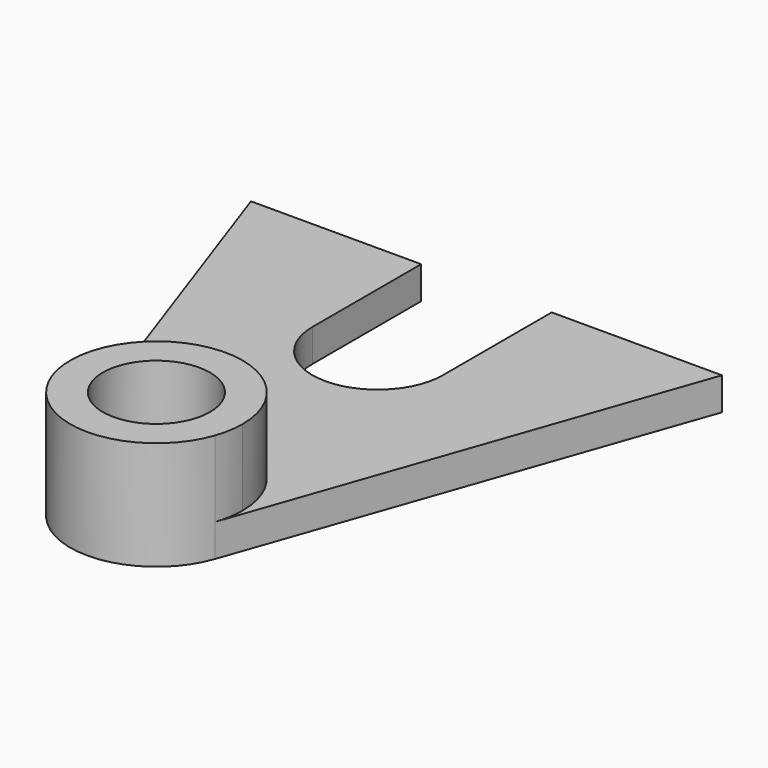
from build123d import *

# Parameters (mm, degrees)
F0_R     = 4.925
F1_DEPTH = 10
F2_DEPTH = 3


with BuildPart() as f1:
    # F0 (on Top) → F1 (new body)
    with BuildSketch(Plane.XY):
        with BuildLine():
            ThreePointArc((7.925, -25.425), (-1.326108, -17.611738), (-7.481199, -28.039821))
            ThreePointArc((-7.481199, -28.039821), (0, -33.35), (7.481199, -28.039821))
            ThreePointArc((7.481199, -28.039821), (7.813262, -26.751108), (7.925, -25.425))
        make_face()
        with Locations((0, -25.425)):
            Circle(F0_R, mode=Mode.SUBTRACT)
    extrude(amount=F1_DEPTH)

    # F0 (on Top) → F2 (join)
    with BuildSketch(Plane.XY):
        with BuildLine():
            Line((-6, 12.5), (-21.650635, 12.5))
            Line((-21.650635, 12.5), (-7.481199, -28.039821))
            ThreePointArc((-7.481199, -28.039821), (-1.326108, -17.611738), (7.925, -25.425))
            ThreePointArc((7.925, -25.425), (7.813262, -26.751108), (7.481199, -28.039821))
            Line((7.481199, -28.039821), (21.650635, 12.5))
            Line((21.650635, 12.5), (6, 12.5))
            Line((6, 12.5), (6, 0))
            ThreePointArc((6, 0), (0, -6), (-6, 0))
            Line((-6, 0), (-6, 12.5))
        make_face()
    extrude(amount=F2_DEPTH)


solid = f1.part
